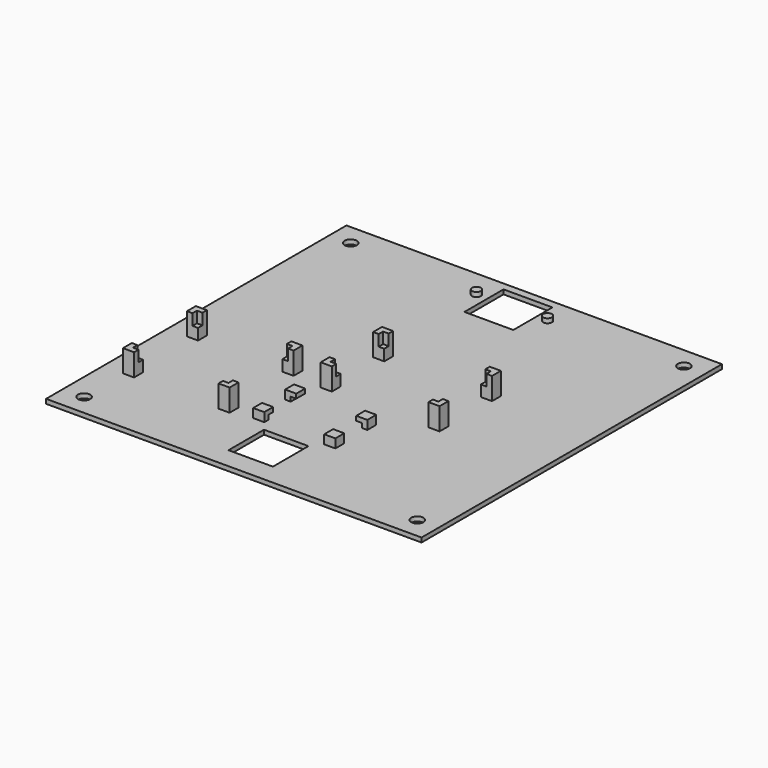
from build123d import *

# Parameters (mm, degrees)
SKETCH_W        = 169
SKETCH_H        = 169
PAD_DEPTH       = 2
SKETCH002_W     = 20
SKETCH002_H     = 20
SKETCH002_W_2   = 22
SKETCH002_H_2   = 22
POCKET001_DEPTH = 2
SKETCH003_R     = 2
PAD001_DEPTH    = 2
SKETCH005_W     = 5
SKETCH005_H     = 5
PAD003_DEPTH    = 10
SKETCH007_W     = 5
SKETCH007_H     = 5
PAD004_DEPTH    = 10
SKETCH001_R     = 2.75
POCKET_DEPTH    = 2.001
SKETCH016_W     = 5
SKETCH016_H     = 5
PAD005_DEPTH    = 4
SKETCH017_W     = 2.5
SKETCH017_H     = 2
POCKET010_DEPTH = 5
SKETCH018_W     = 2.5
SKETCH018_H     = 2
POCKET011_DEPTH = 5
SKETCH019_W     = 2.5
SKETCH019_H     = 2
POCKET012_DEPTH = 2.5
SKETCH020_W     = 2.5
SKETCH020_H     = 2
POCKET013_DEPTH = 2.5
SKETCH021_W     = 2.5
SKETCH021_H     = 2.5
POCKET014_DEPTH = 5
SKETCH022_W     = 2.5
SKETCH022_H     = 2.5
POCKET015_DEPTH = 5
SKETCH023_W     = 2.5
SKETCH023_H     = 2.5
POCKET016_DEPTH = 5
SKETCH024_W     = 2.5
SKETCH024_H     = 2.5
POCKET017_DEPTH = 5
SKETCH025_W     = 2.5
SKETCH025_H     = 2.5
POCKET018_DEPTH = 5
SKETCH026_W     = 2.5
SKETCH026_H     = 2.5
POCKET019_DEPTH = 5
SKETCH027_W     = 2.5
SKETCH027_H     = 2.5
POCKET020_DEPTH = 5
SKETCH028_W     = 2.5
SKETCH028_H     = 2.5
POCKET021_DEPTH = 5


with BuildPart() as part:
    # Sketch (on DatumPlane) → Pad (new body)
    with BuildSketch(Plane.XY.offset(-2)):
        Rectangle(SKETCH_W, SKETCH_H)
    extrude(amount=PAD_DEPTH)

    # Sketch002 (on DatumPlane) → Pocket001 (cut)
    with BuildSketch(Plane.XY):
        with Locations((0, -65)):
            Rectangle(SKETCH002_W, SKETCH002_H)
        with Locations((0, 70)):
            Rectangle(SKETCH002_W_2, SKETCH002_H_2)
    extrude(amount=-POCKET001_DEPTH, mode=Mode.SUBTRACT)

    # Sketch003 (on DatumPlane) → Pad001 (join)
    with BuildSketch(Plane.XY):
        with Locations((-16, 72)):
            Circle(SKETCH003_R)
        with Locations((16, 72)):
            Circle(SKETCH003_R)
    extrude(amount=PAD001_DEPTH)

    # Sketch005 (on DatumPlane) → Pad003 (join)
    with BuildSketch(Plane.XY):
        with Locations((-12, 14.5)):
            Rectangle(SKETCH005_W, SKETCH005_H)
        with Locations((36.5, 14.5)):
            Rectangle(SKETCH005_W, SKETCH005_H)
        with Locations((-12, -15)):
            Rectangle(SKETCH005_W, SKETCH005_H)
        with Locations((36.5, -15)):
            Rectangle(SKETCH005_W, SKETCH005_H)
    extrude(amount=PAD003_DEPTH)

    # Sketch007 (on DatumPlane) → Pad004 (join)
    with BuildSketch(Plane.XY):
        with Locations((-73, -14)):
            Rectangle(SKETCH007_W, SKETCH007_H)
        with Locations((-30, -14)):
            Rectangle(SKETCH007_W, SKETCH007_H)
        with Locations((-73, -50)):
            Rectangle(SKETCH007_W, SKETCH007_H)
        with Locations((-30, -50)):
            Rectangle(SKETCH007_W, SKETCH007_H)
    extrude(amount=PAD004_DEPTH)

    # Sketch001 (on DatumPlane) → Pocket (cut, through all)
    with BuildSketch(Plane.XY):
        with Locations((75, 75)):
            Circle(SKETCH001_R)
        with Locations((75, -75)):
            Circle(SKETCH001_R)
        with Locations((-75, -75)):
            Circle(SKETCH001_R)
        with Locations((-75, 75)):
            Circle(SKETCH001_R)
    extrude(amount=-POCKET_DEPTH, mode=Mode.SUBTRACT)

    # Sketch016 (on DatumPlane) → Pad005 (join)
    with BuildSketch(Plane.XY):
        with Locations((-16, -30)):
            Rectangle(SKETCH016_W, SKETCH016_H)
        with Locations((16, -30)):
            Rectangle(SKETCH016_W, SKETCH016_H)
        with Locations((-16, -48)):
            Rectangle(SKETCH016_W, SKETCH016_H)
        with Locations((16, -48)):
            Rectangle(SKETCH016_W, SKETCH016_H)
    extrude(amount=PAD005_DEPTH)

    # Sketch017 (on Face36 of Pad005) → Pocket010 (cut)
    with BuildSketch(Plane.XZ.offset(32.5)):
        with Locations((-14.75, 1)):
            Rectangle(SKETCH017_W, SKETCH017_H)
    extrude(amount=-POCKET010_DEPTH, mode=Mode.SUBTRACT)

    # Sketch018 (on Face60 of Pocket010) → Pocket011 (cut)
    with BuildSketch(Plane.XZ.offset(32.5)):
        with Locations((14.75, 1)):
            Rectangle(SKETCH018_W, SKETCH018_H)
    extrude(amount=-POCKET011_DEPTH, mode=Mode.SUBTRACT)

    # Sketch019 (on Face35 of Pocket011) → Pocket012 (cut)
    with BuildSketch(Plane(origin=(0, -45.5, 0), x_dir=(-1, 0, 0), z_dir=(0, 1, 0))):
        with Locations((-14.75, 1)):
            Rectangle(SKETCH019_W, SKETCH019_H)
    extrude(amount=-POCKET012_DEPTH, mode=Mode.SUBTRACT)

    # Sketch020 (on Face38 of Pocket012) → Pocket013 (cut)
    with BuildSketch(Plane(origin=(0, -45.5, 0), x_dir=(-1, 0, 0), z_dir=(0, 1, 0))):
        with Locations((14.75, 1)):
            Rectangle(SKETCH020_W, SKETCH020_H)
    extrude(amount=-POCKET013_DEPTH, mode=Mode.SUBTRACT)

    # Sketch021 (on Face36 of Pocket013) → Pocket014 (cut)
    with BuildSketch(Plane.XY.offset(10)):
        with Locations((-71.75, -15.25)):
            Rectangle(SKETCH021_W, SKETCH021_H)
    extrude(amount=-POCKET014_DEPTH, mode=Mode.SUBTRACT)

    # Sketch022 (on Face87 of Pocket014) → Pocket015 (cut)
    with BuildSketch(Plane.XY.offset(10)):
        with Locations((-31.25, -15.25)):
            Rectangle(SKETCH022_W, SKETCH022_H)
    extrude(amount=-POCKET015_DEPTH, mode=Mode.SUBTRACT)

    # Sketch023 (on Face85 of Pocket015) → Pocket016 (cut)
    with BuildSketch(Plane.XY.offset(10)):
        with Locations((-71.75, -48.75)):
            Rectangle(SKETCH023_W, SKETCH023_H)
    extrude(amount=-POCKET016_DEPTH, mode=Mode.SUBTRACT)

    # Sketch024 (on Face73 of Pocket016) → Pocket017 (cut)
    with BuildSketch(Plane.XY.offset(10)):
        with Locations((-31.25, -48.75)):
            Rectangle(SKETCH024_W, SKETCH024_H)
    extrude(amount=-POCKET017_DEPTH, mode=Mode.SUBTRACT)

    # Sketch025 (on Face92 of Pocket017) → Pocket018 (cut)
    with BuildSketch(Plane.XY.offset(10)):
        with Locations((-10.75, 13.25)):
            Rectangle(SKETCH025_W, SKETCH025_H)
    extrude(amount=-POCKET018_DEPTH, mode=Mode.SUBTRACT)

    # Sketch026 (on Face87 of Pocket018) → Pocket019 (cut)
    with BuildSketch(Plane.XY.offset(10)):
        with Locations((35.25, 13.25)):
            Rectangle(SKETCH026_W, SKETCH026_H)
    extrude(amount=-POCKET019_DEPTH, mode=Mode.SUBTRACT)

    # Sketch027 (on Face85 of Pocket019) → Pocket020 (cut)
    with BuildSketch(Plane.XY.offset(10)):
        with Locations((-10.75, -13.75)):
            Rectangle(SKETCH027_W, SKETCH027_H)
    extrude(amount=-POCKET020_DEPTH, mode=Mode.SUBTRACT)

    # Sketch028 (on Face89 of Pocket020) → Pocket021 (cut)
    with BuildSketch(Plane.XY.offset(10)):
        with Locations((35.25, -13.75)):
            Rectangle(SKETCH028_W, SKETCH028_H)
    extrude(amount=-POCKET021_DEPTH, mode=Mode.SUBTRACT)


solid = part.part
